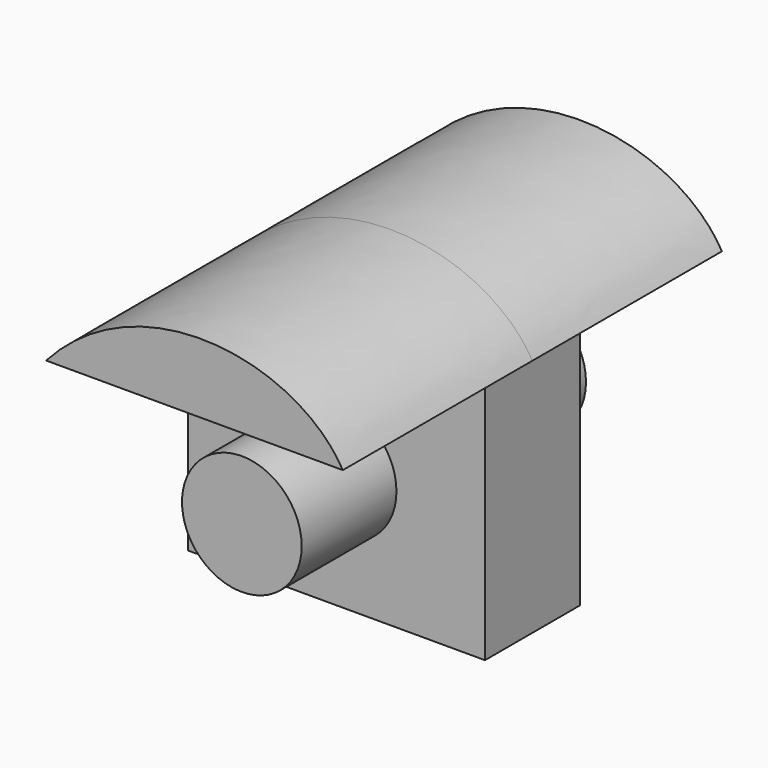
from build123d import *

# Parameters (mm, degrees)
F0_W     = 63.627512
F0_H     = 51.364652
F0_R     = 12.830252
F1_DEPTH = 12.7
F2_DEPTH = 50.8
F3_DEPTH = 38.1


with BuildPart() as f1:
    # F0 (on Front) → F1 (new body, symmetric)
    with BuildSketch(Plane.XZ):
        Rectangle(F0_W, F0_H)
        Circle(F0_R, mode=Mode.SUBTRACT)
    extrude(amount=F1_DEPTH, both=True)

    # F0 (on Front) → F2 (join, symmetric)
    with BuildSketch(Plane.XZ):
        with BuildLine():
            Line((-31.813756, 25.682326), (31.813756, 25.682326))
            add(Edge.make_bspline(
                [(-31.813756, 25.682326), (-11.520594, 48.300739), (22.089949, 42.593289), (31.813756, 25.682326)],
                knots=[0, 0, 0, 0, 63.627511, 63.627511, 63.627511, 63.627511], degree=3))
        make_face()
    extrude(amount=F2_DEPTH, both=True)

    # F0 (on Front) → F3 (join, symmetric)
    with BuildSketch(Plane.XZ):
        Circle(F0_R)
    extrude(amount=F3_DEPTH, both=True)


solid = f1.part
